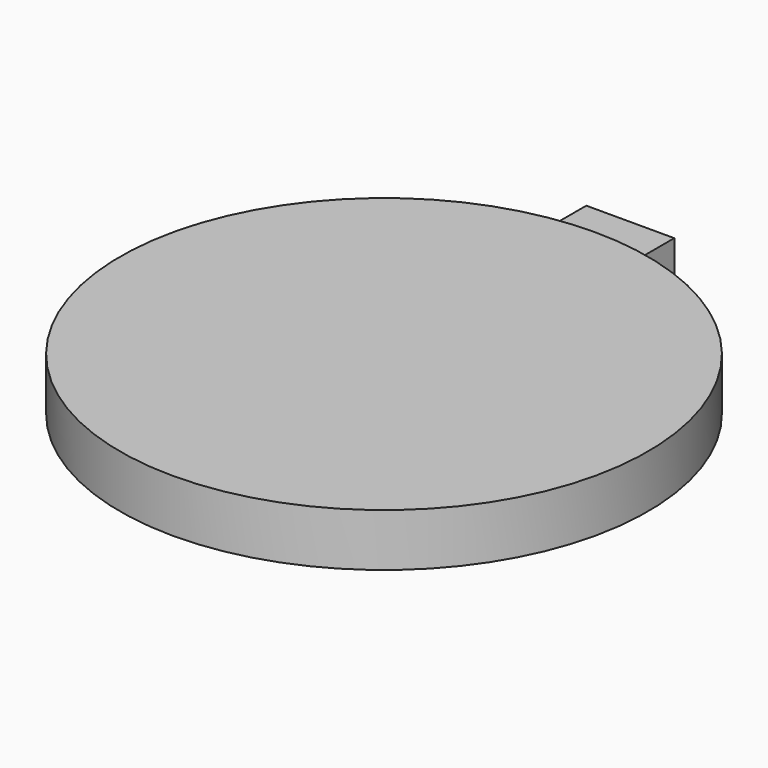
from build123d import *

# Parameters (mm, degrees)
F1_DEPTH = 7.62
F2_DEPTH = 6.35


with BuildPart() as f1:
    # F0 (on Top) → F1 (new body)
    with BuildSketch(Plane.XY):
        with BuildLine():
            Line((6.35, 31.75), (6.35, 37.5671066227))
            ThreePointArc((6.35, 37.5671066227), (0, 38.1), (-6.35, 37.5671066227))
            Line((-6.35, 37.5671066227), (-6.35, 31.75))
            Line((-6.35, 31.75), (6.35, 31.75))
        make_face()
        with BuildLine():
            ThreePointArc((-6.35, 37.5671066227), (-24.5934442484, -29.099355663), (38.1, 0))
            ThreePointArc((38.1, 0), (29.099355663, 24.5934442484), (6.35, 37.5671066227))
            Line((6.35, 37.5671066227), (6.35, 31.75))
            Line((6.35, 31.75), (-6.35, 31.75))
            Line((-6.35, 31.75), (-6.35, 37.5671066227))
        make_face()
    extrude(amount=F1_DEPTH)


with BuildPart() as f2:
    # F0 (on Top) → F2 (new body, symmetric)
    with BuildSketch(Plane.XY):
        with BuildLine():
            ThreePointArc((-6.35, 37.5671066227), (0, 38.1), (6.35, 37.5671066227))
            Line((6.35, 37.5671066227), (6.35, 44.45))
            Line((6.35, 44.45), (-6.35, 44.45))
            Line((-6.35, 44.45), (-6.35, 37.5671066227))
        make_face()
        with BuildLine():
            Line((6.35, 31.75), (6.35, 37.5671066227))
            ThreePointArc((6.35, 37.5671066227), (0, 38.1), (-6.35, 37.5671066227))
            Line((-6.35, 37.5671066227), (-6.35, 31.75))
            Line((-6.35, 31.75), (6.35, 31.75))
        make_face()
    extrude(amount=F2_DEPTH, both=True)


solid = Compound([f1.part, f2.part])
